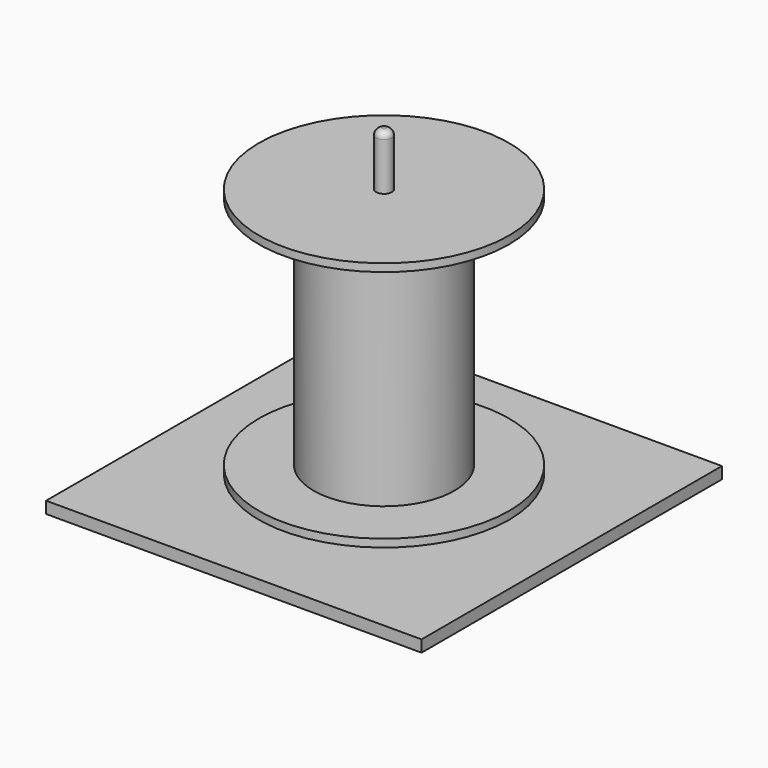
from build123d import *

# Parameters (mm, degrees)
F0_W      = 304.8
F0_H      = 304.8
F1_DEPTH  = 9.525
F2_R      = 25.4
F3_DEPTH  = 6.35
F4_R      = 6.35
F5_DEPTH  = 15.876
F6_R      = 6.35
F7_DEPTH  = 254
F8_R      = 5.08
F9_R      = 3.175
F10_DEPTH = 263.526
F11_R     = 4.7625
F12_DEPTH = 6.604
F13_R     = 2.54
F14_DEPTH = 19.05


with BuildPart() as f1:
    # F0 (on Top) → F1 (new body)
    with BuildSketch(Plane.XY):
        Rectangle(F0_W, F0_H)
    extrude(amount=F1_DEPTH)

    # F9 (on face) → F10 (cut, through all)
    with BuildSketch(Plane(origin=(0, 0, 0), x_dir=(1, 0, 0), z_dir=(0, 0, -1))):
        Circle(F9_R)
    extrude(amount=-F10_DEPTH, mode=Mode.SUBTRACT)

    # F11 (on face) → F12 (cut)
    with BuildSketch(Plane(origin=(0, 0, 0), x_dir=(1, 0, 0), z_dir=(0, 0, -1))):
        Circle(F11_R)
    extrude(amount=-F12_DEPTH, mode=Mode.SUBTRACT)


with BuildPart() as f3:
    # F2 (on face) → F3 (new body)
    with BuildSketch(Plane.XY.offset(9.525)):
        Circle(F2_R)
    extrude(amount=F3_DEPTH)

    # F4 (on face) → F5 (cut, through all)
    with BuildSketch(Plane.XY.offset(15.875)):
        Circle(F4_R)
    extrude(amount=-F5_DEPTH, mode=Mode.SUBTRACT)


with BuildPart() as f7:
    # F6 (on face) → F7 (new body)
    with BuildSketch(Plane.XY.offset(9.525)):
        Circle(F6_R)
    extrude(amount=F7_DEPTH)

    # F8
    f8_edges = [f7.edges().sort_by_distance(p)[0] for p in [
        (-6.35, 0, 263.525),
    ]]
    fillet(f8_edges, radius=F8_R)

    # F13 (on face) → F14 (cut)
    with BuildSketch(Plane(origin=(0, 0, 9.525), x_dir=(1, 0, 0), z_dir=(0, 0, -1))):
        Circle(F13_R)
    extrude(amount=-F14_DEPTH, mode=Mode.SUBTRACT)


with BuildPart() as f16:
    # F15 (on Front) → F16 (revolve)
    with BuildSketch(Plane.XZ):
        Polygon((-101.6, 16.51), (-6.35, 16.51), (-6.35, 219.71), (-101.6, 219.71), (-101.6, 213.36), (-57.15, 213.36), (-57.15, 22.86), (-101.6, 22.86), align=None)
    revolve(axis=Axis((0, 0, 128.212804722), (0, 0, 1)))


solid = Compound([f1.part, f3.part, f7.part, f16.part])
